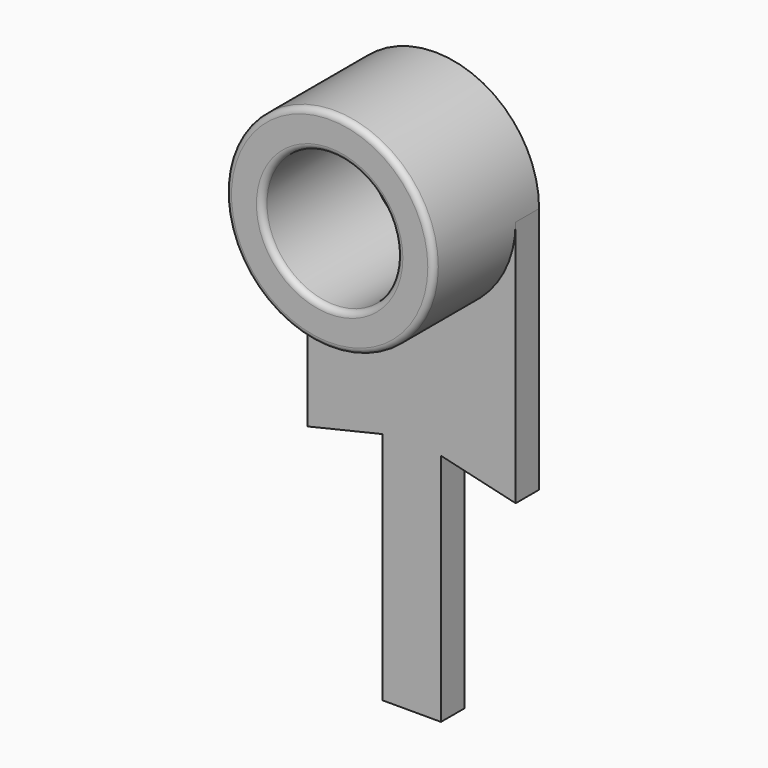
from build123d import *

# Parameters (mm, degrees)
SKETCH101_R   = 1.15
PAD068_DEPTH  = 0.5
SKETCH107_R   = 1.775
SKETCH107_R_2 = 1.15
PAD062_DEPTH  = 1.75
FILLET006_R   = 0.1


with BuildPart() as part:
    # Sketch101 → Pad068 (new body)
    with BuildSketch(Plane.XZ):
        with BuildLine():
            Line((1.775, 0), (1.775, -4.225))
            Line((1.775, -4.225), (0.5, -3.925))
            Line((0.5, -3.925), (0.5, -7.925))
            Line((0.5, -7.925), (-0.5, -7.925))
            Line((-0.5, -7.925), (-0.5, -3.925))
            Line((-0.5, -3.925), (-1.775, -4.225))
            Line((-1.775, -4.225), (-1.775, 0))
            ThreePointArc((1.775, 0), (0, 1.775), (-1.775, 0))
        make_face()
        Circle(SKETCH101_R, mode=Mode.SUBTRACT)
    extrude(amount=PAD068_DEPTH)

    # Sketch107 (on Face11 of Pad068) → Pad062 (join)
    with BuildSketch(Plane.XZ.offset(0.5)):
        Circle(SKETCH107_R)
        Circle(SKETCH107_R_2, mode=Mode.SUBTRACT)
    extrude(amount=PAD062_DEPTH)

    # Fillet006
    fillet006_edges = [part.edges().sort_by_distance(p)[0] for p in [
        (-1.775, -2.25, 0),
        (-1.15, -2.25, 0),
    ]]
    fillet(fillet006_edges, radius=FILLET006_R)


with BuildPart() as part_1:
    # Body031 placement: moved
    add(part.part.moved(Location((5, 0.5, -8))))


solid = part_1.part
